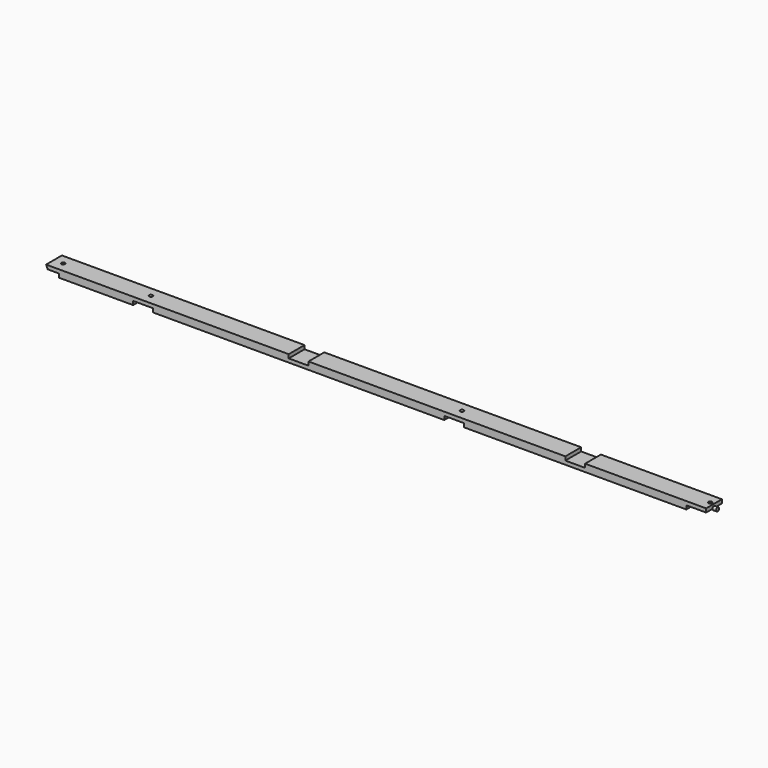
from build123d import *

# Parameters (mm, degrees)
F1_DEPTH = 25.4
F3_R     = 4.7625
F4_DEPTH = 9.525
F5_R     = 4.7625
F6_DEPTH = 25.4
F7_W     = 50.8
F7_H     = 314.218193
F7_H_2   = 134.387314
F8_DEPTH = 25.4


with BuildPart() as f1:
    # F0 (on Front) → F1 (new body, symmetric)
    with BuildSketch(Plane.XZ):
        Polygon((29.345384, 0), (29.345384, -9.525), (219.845384, -9.525), (219.845384, 0), (270.645384, 0), (270.645384, -9.525), (1019.945384, -9.525), (1019.945384, 0), (1070.745384, 0), (1070.745384, -9.525), (1642.245384, -9.525), (1642.245384, 0), (1693.045384, 0), (1693.045384, 9.525), (-3.945384, 9.525), (0, 0), align=None)
    extrude(amount=F1_DEPTH, both=True)

    # F3 (on offset) → F4 (join)
    with BuildSketch(Plane.YZ.offset(1692.91)):
        Circle(F3_R)
    extrude(amount=F4_DEPTH)

    # F5 (on Top) → F6 (cut)
    with BuildSketch(Plane.XY):
        with Locations((245.245384, 0)):
            Circle(F5_R)
        with Locations((1045.345384, 0)):
            Circle(F5_R)
        with Locations((1683.385, 0)):
            Circle(F5_R)
        with Locations((19.820384, 0)):
            Circle(F5_R)
    extrude(amount=F6_DEPTH, mode=Mode.SUBTRACT)

    # F7 (on Top) → F8 (cut)
    with BuildSketch(Plane.XY):
        with Locations((645.295384, 95.500171)):
            Rectangle(F7_W, F7_H)
        with Locations((1356.495384, -4.853446)):
            Rectangle(F7_W, F7_H_2)
    extrude(amount=F8_DEPTH, mode=Mode.SUBTRACT)


solid = f1.part
